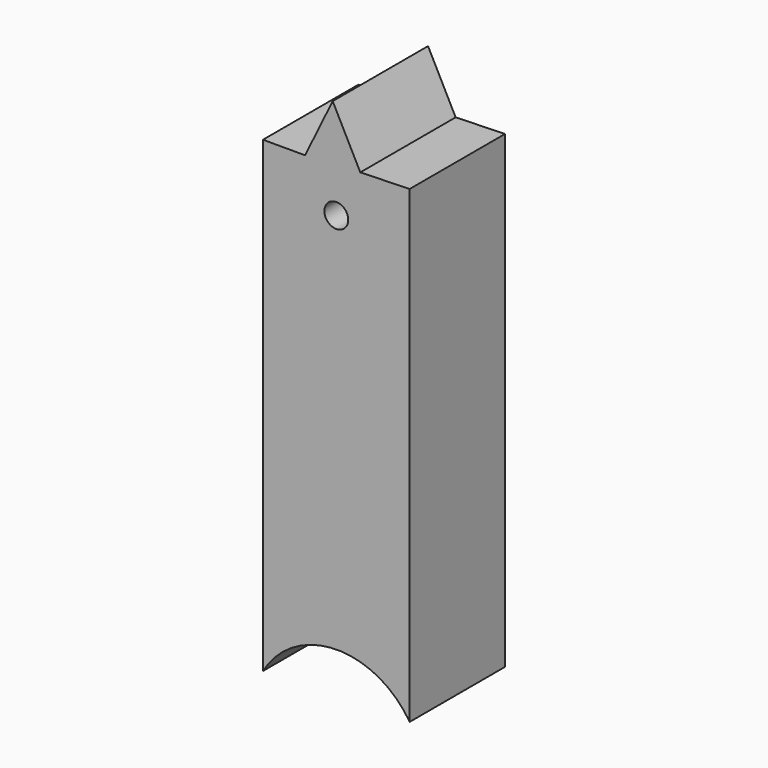
from build123d import *

# Parameters (mm, degrees)
F1_DEPTH = 25.4
F3_D     = 5.08


with BuildPart() as f1:
    # F0 (on Front) → F1 (new body)
    with BuildSketch(Plane.XZ):
        with BuildLine():
            Line((0, 49.677387), (-8.975977, 49.677387))
            Line((-8.975977, 49.677387), (-8.975977, -49.986906))
            ThreePointArc((-8.975977, -49.986906), (6.480163, -40.868172), (22.285184, -49.367871))
            Line((22.285184, -49.367871), (22.285184, 50.605938))
            Line((22.285184, 50.605938), (11.761624, 50.296422))
            Line((11.761624, 50.296422), (5.880813, 61.748531))
            Line((5.880813, 61.748531), (0, 49.677387))
        make_face()
    extrude(amount=F1_DEPTH)

    # F3 (through all)
    with Locations(Plane.XZ.offset(25.4)):
        with Locations((6.654603, 40.549938)):
            Hole(F3_D / 2)


solid = f1.part
